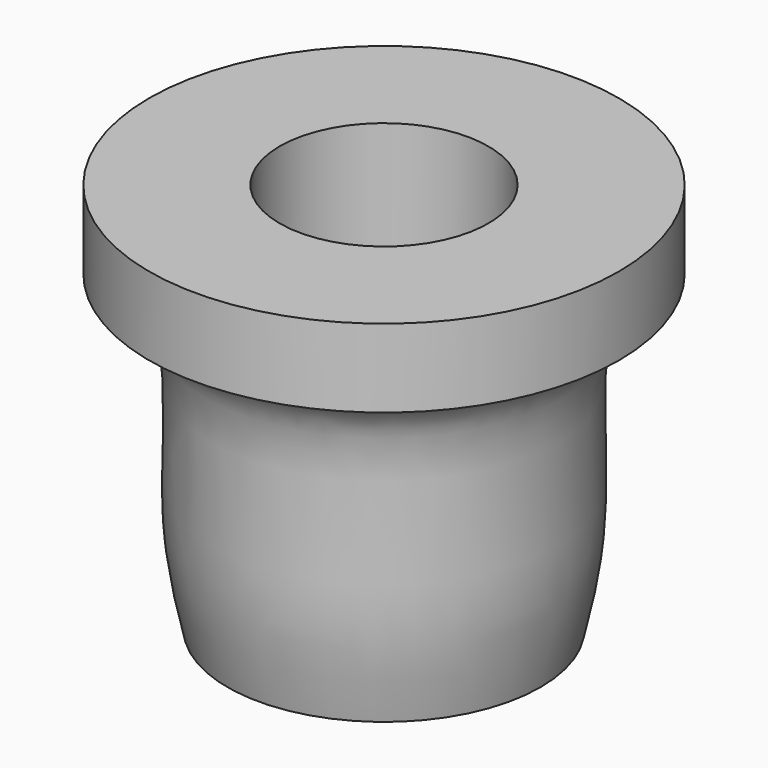
from build123d import *


with BuildPart() as f1:
    # F0 (on Front) → F1 (revolve)
    with BuildSketch(Plane.XZ):
        with BuildLine():
            Line((-4, 0), (-9, 0))
            Line((-9, 0), (-9, -3))
            add(Edge.make_bspline(
                [(-6, -15), (-6.2992899593, -13.7156231877), (-6.9570491012, -10.8929070771), (-6.180231646, -4.0004939564), (-8.2202334339, -3.276672279), (-9, -3)],
                knots=[0, 0, 0, 0, 0.3402720465, 0.7478267892, 1, 1, 1, 1], degree=3))
            Line((-6, -15), (-2, -15))
            Line((-2, -15), (-2, -13))
            Line((-2, -13), (-4, -13))
            Line((-4, -13), (-4, 0))
        make_face()
    revolve(axis=Axis((0, 0, -8.2239229232), (0, 0, -1)))


solid = f1.part
